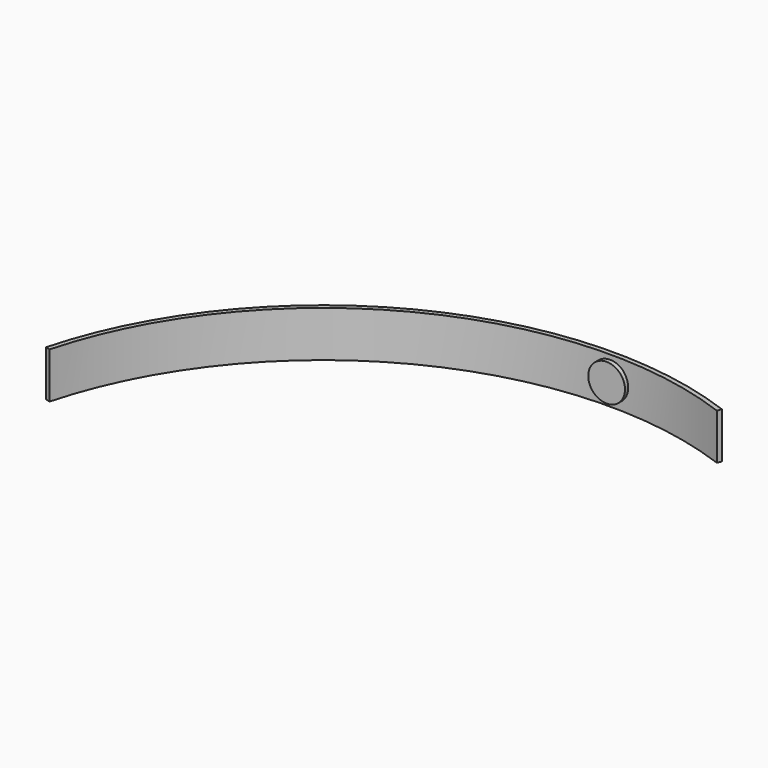
from build123d import *

# Parameters (mm, degrees)
F2_DEPTH = 190.5
F3_R     = 152.4


with BuildPart() as f2:
    # F0 (on Top) → F2 (new body, symmetric)
    with BuildSketch(Plane.XY):
        with BuildLine():
            Line((1031.1725737314, 2795.2865076024), (1044.3589237791, 2831.031859362))
            ThreePointArc((1044.3589237791, 2831.031859362), (-1389.607794744, 2678.5102439951), (-2915.9144535098, 776.446939728))
            Line((-2915.9144535098, 776.446939728), (-2879.097351824, 766.6433167516))
            ThreePointArc((-2879.097351824, 766.6433167516), (-1372.0622417801, 2644.6906702073), (1031.1725737314, 2795.2865076024))
        make_face()
    extrude(amount=F2_DEPTH, both=True)


with BuildPart() as f4:
    # F3 (on offset) → F4 (new body, up to the next surface of F2)
    with BuildSketch(Plane.XZ.offset(-2941.32)):
        Circle(F3_R)
    extrude(until=Until.NEXT, target=f2.part, dir=(0, 1, 0))


solid = Compound([f2.part, f4.part])
